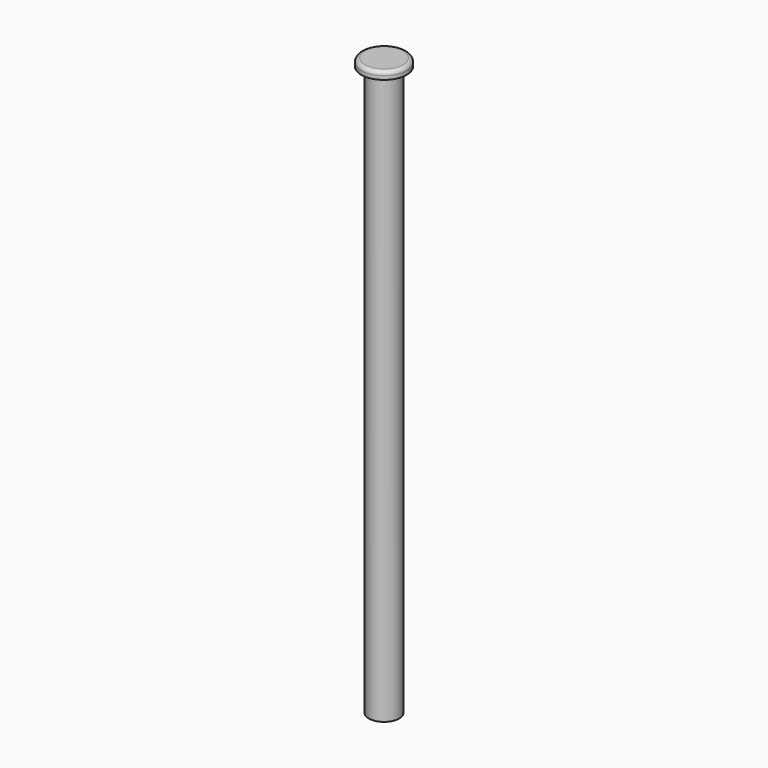
from build123d import *

# Parameters (mm, degrees)
F0_R     = 3
F1_DEPTH = 1
F2_R     = 0.5
F3_R     = 2
F4_DEPTH = 75


with BuildPart() as f1:
    # F0 (on Top) → F1 (new body)
    with BuildSketch(Plane.XY):
        Circle(F0_R)
    extrude(amount=F1_DEPTH)

    # F2
    f2_edges = [f1.edges().sort_by_distance(p)[0] for p in [
        (-3, 0, 1),
    ]]
    fillet(f2_edges, radius=F2_R)

    # F3 (on face) → F4 (join)
    with BuildSketch(Plane(origin=(0, 0, 0), x_dir=(1, 0, 0), z_dir=(0, 0, -1))):
        Circle(F3_R)
    extrude(amount=F4_DEPTH)


solid = f1.part
